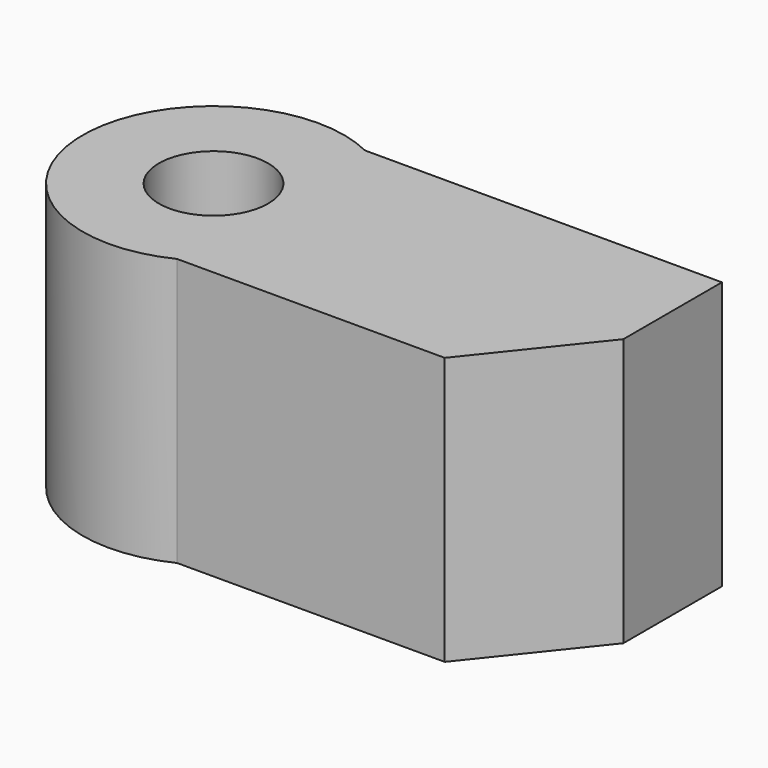
from build123d import *

# Parameters (mm, degrees)
F0_R     = 3.886051
F1_DEPTH = 19.05
F2_DEPTH = 19.05


with BuildPart() as f1:
    # F0 (on Top) → F1 (new body)
    with BuildSketch(Plane.XY):
        with BuildLine():
            ThreePointArc((5.214749, 8.36094), (3.804208, 3.434001), (0, 0))
            Line((0, 0), (19.05, 0))
            Line((19.05, 0), (25.4, 7.954209))
            Line((25.4, 7.954209), (25.4, 16.72188))
            Line((25.4, 16.72188), (0, 16.72188))
            ThreePointArc((0, 16.72188), (3.804208, 13.287879), (5.214749, 8.36094))
        make_face()
        with BuildLine():
            ThreePointArc((0, 16.72188), (-13.405308, 8.36094), (0, 0))
            ThreePointArc((0, 0), (3.804208, 3.434001), (5.214749, 8.36094))
            ThreePointArc((5.214749, 8.36094), (3.804208, 13.287879), (0, 16.72188))
        make_face()
        with Locations((-4.095279, 8.36094)):
            Circle(F0_R, mode=Mode.SUBTRACT)
    extrude(amount=F1_DEPTH)

    # F0 (on Top) → F2 (join)
    with BuildSketch(Plane.XY):
        with BuildLine():
            ThreePointArc((5.214749, 8.36094), (3.804208, 3.434001), (0, 0))
            Line((0, 0), (19.05, 0))
            Line((19.05, 0), (25.4, 7.954209))
            Line((25.4, 7.954209), (25.4, 16.72188))
            Line((25.4, 16.72188), (0, 16.72188))
            ThreePointArc((0, 16.72188), (3.804208, 13.287879), (5.214749, 8.36094))
        make_face()
        with BuildLine():
            ThreePointArc((0, 16.72188), (-13.405308, 8.36094), (0, 0))
            ThreePointArc((0, 0), (3.804208, 3.434001), (5.214749, 8.36094))
            ThreePointArc((5.214749, 8.36094), (3.804208, 13.287879), (0, 16.72188))
        make_face()
        with Locations((-4.095279, 8.36094)):
            Circle(F0_R, mode=Mode.SUBTRACT)
    extrude(amount=F2_DEPTH)


solid = f1.part
